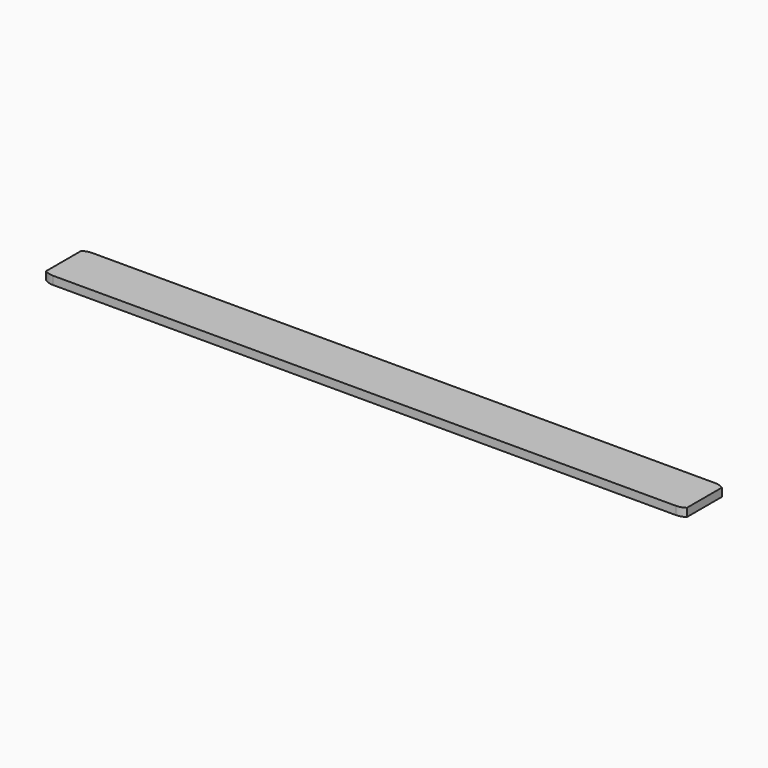
from build123d import *

# Parameters (mm, degrees)
F1_DEPTH = 6.35
F3_DEPTH = 25.4
F5_DEPTH = 25.4


with BuildPart() as f1:
    # F0 (on Top) → F1 (new body)
    with BuildSketch(Plane.XY):
        with BuildLine():
            ThreePointArc((-254, -6.35), (-250.280256, -15.330256), (-241.3, -19.05))
            Line((-241.3, -19.05), (241.3, -19.05))
            ThreePointArc((241.3, -19.05), (250.280256, -15.330256), (254, -6.35))
            Line((254, -6.35), (254, 6.35))
            ThreePointArc((254, 6.35), (250.280256, 15.330256), (241.3, 19.05))
            Line((241.3, 19.05), (-241.3, 19.05))
            ThreePointArc((-241.3, 19.05), (-250.280256, 15.330256), (-254, 6.35))
            Line((-254, 6.35), (-254, -6.35))
        make_face()
    extrude(amount=F1_DEPTH)

    # F2 (on face) → F3 (cut)
    with BuildSketch(Plane.XY.offset(6.35)):
        with BuildLine():
            Line((250.280256, 15.330256), (250.280256, -15.330256))
            ThreePointArc((250.280256, -15.330256), (253.03327, -11.21008), (254, -6.35))
            Line((254, -6.35), (254, 6.35))
            ThreePointArc((254, 6.35), (253.03327, 11.21008), (250.280256, 15.330256))
        make_face()
        with BuildLine():
            Line((-254, 6.35), (-254, -6.35))
            ThreePointArc((-254, -6.35), (-253.03327, -11.21008), (-250.280256, -15.330256))
            Line((-250.280256, -15.330256), (-250.280256, 15.330256))
            ThreePointArc((-250.280256, 15.330256), (-253.03327, 11.21008), (-254, 6.35))
        make_face()
    extrude(amount=-F3_DEPTH, mode=Mode.SUBTRACT)

    # F4 (on face) → F5 (cut)
    with BuildSketch(Plane.XY.offset(6.35)):
        with BuildLine():
            Line((-248.22277, -16.997312), (-248.22277, 16.997312))
            ThreePointArc((-248.22277, 16.997312), (-249.295082, 16.217556), (-250.280256, 15.330256))
            Line((-250.280256, 15.330256), (-250.280256, -15.330256))
            ThreePointArc((-250.280256, -15.330256), (-249.295082, -16.217556), (-248.22277, -16.997312))
        make_face()
        with BuildLine():
            ThreePointArc((250.280256, 15.330256), (249.295082, 16.217556), (248.22277, 16.997312))
            Line((248.22277, 16.997312), (248.22277, -16.997312))
            ThreePointArc((248.22277, -16.997312), (249.295082, -16.217556), (250.280256, -15.330256))
            Line((250.280256, -15.330256), (250.280256, 15.330256))
        make_face()
    extrude(amount=-F5_DEPTH, mode=Mode.SUBTRACT)


solid = f1.part
